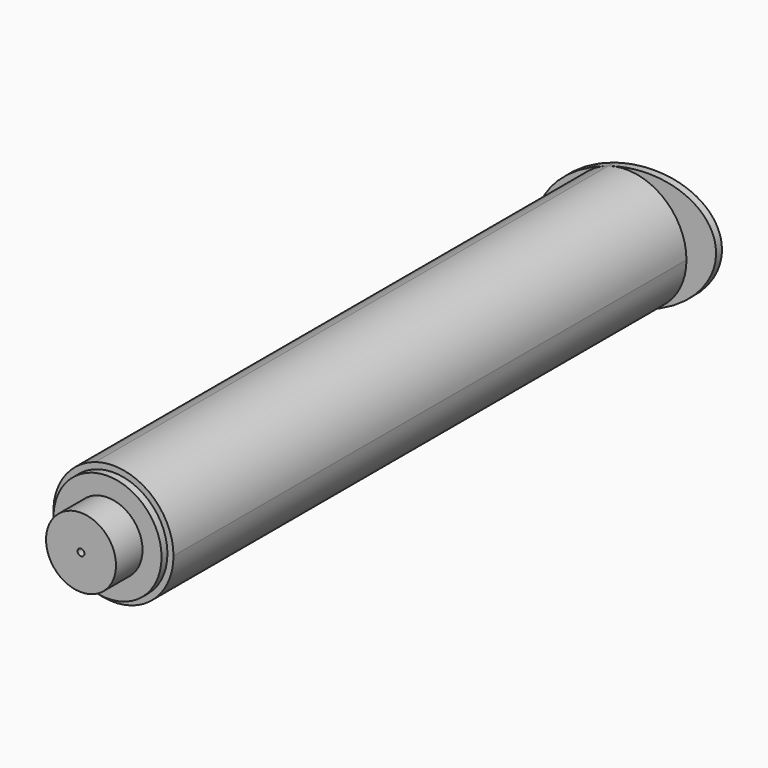
from build123d import *

# Parameters (mm, degrees)
F0_R     = 7.155
F1_DEPTH = 88.05
F2_DEPTH = 1
F3_R     = 7.335
F3_R_2   = 7.155
F3_R_3   = 4.75
F4_DEPTH = 1
F3_R_4   = 0.462548
F5_DEPTH = 5.5


with BuildPart() as f1:
    # F0 (on Front) → F1 (new body)
    with BuildSketch(Plane.XZ):
        with BuildLine():
            ThreePointArc((2.442993, -7.780476), (6.573684, -4.826045), (8.155, 0))
            ThreePointArc((8.155, 0), (4.826045, 6.573684), (-2.442993, 7.780476))
            ThreePointArc((-2.442993, 7.780476), (-7.780476, -2.442993), (2.442993, -7.780476))
        make_face()
        Circle(F0_R, mode=Mode.SUBTRACT)
    extrude(amount=F1_DEPTH)

    # F0 (on Front) → F2 (join)
    with BuildSketch(Plane.XZ):
        with BuildLine():
            ThreePointArc((2.442993, -7.780476), (-7.780476, -2.442993), (-2.442993, 7.780476))
            add(Edge.make_bspline(
                [(-2.442993, 7.780476), (-14.368922, 4.035851), (-11.925929, -3.744625)],
                knots=[4.712389, 4.712389, 4.712389, 6.283185, 6.283185, 6.283185], degree=2, weights=[1, 0.707107, 1]))
            add(Edge.make_bspline(
                [(-11.925929, -3.744625), (-9.482936, -11.525101), (2.442993, -7.780476)],
                knots=[0, 0, 0, 1.570796, 1.570796, 1.570796], degree=2, weights=[1, 0.707107, 1]))
        make_face()
        with BuildLine():
            ThreePointArc((-2.442993, 7.780476), (4.826045, 6.573684), (8.155, 0))
            ThreePointArc((8.155, 0), (6.573684, -4.826045), (2.442993, -7.780476))
            add(Edge.make_bspline(
                [(2.442993, -7.780476), (14.368922, -4.035851), (11.925929, 3.744625), (9.482936, 11.525101), (-2.442993, 7.780476)],
                knots=[1.570796, 1.570796, 1.570796, 3.141593, 3.141593, 4.712389, 4.712389, 4.712389], degree=2, weights=[1, 0.707107, 1, 0.707107, 1]))
        make_face()
    extrude(amount=F2_DEPTH)

    # F3 (on face) → F4 (join)
    with BuildSketch(Plane.XZ.offset(88.05)):
        Circle(F3_R)
        Circle(F3_R_2, mode=Mode.SUBTRACT)
        Circle(F3_R_2)
        Circle(F3_R_3, mode=Mode.SUBTRACT)
    extrude(amount=F4_DEPTH)

    # F3 (on face) → F5 (join)
    with BuildSketch(Plane.XZ.offset(88.05)):
        Circle(F3_R_3)
        Circle(F3_R_4, mode=Mode.SUBTRACT)
    extrude(amount=F5_DEPTH)


solid = f1.part
